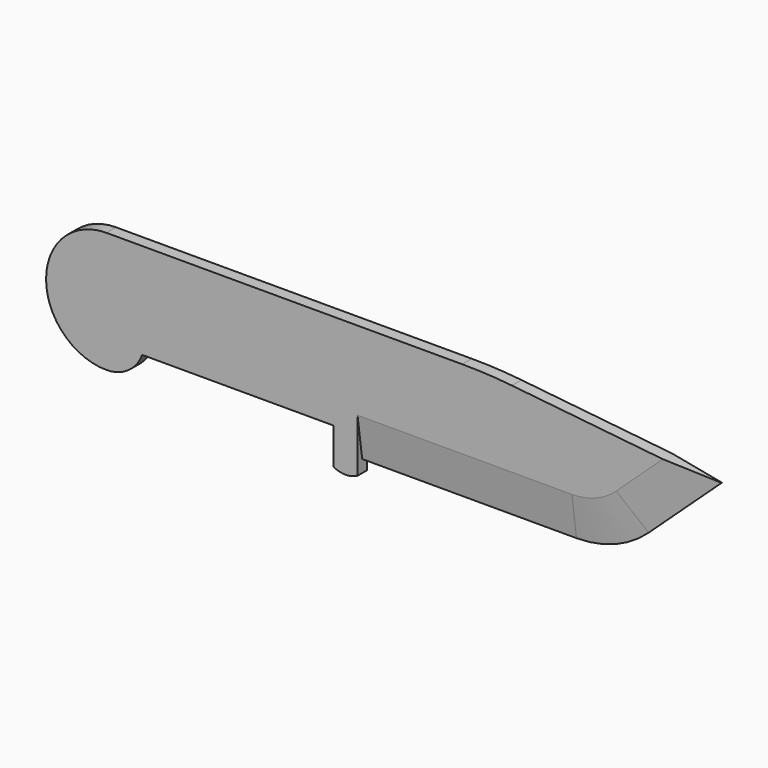
from build123d import *

# Parameters (mm, degrees)
F1_DEPTH = 3.175


with BuildPart() as f1:
    # F0 (on Front) → F1 (new body)
    with BuildSketch(Plane.XZ):
        with BuildLine():
            Line((94.2812450191, 0), (0, 0))
            ThreePointArc((0, 0), (-16.002, -16.002), (0, -32.004))
            ThreePointArc((0, -32.004), (5.7669601924, -30.1895691641), (9.4561357565, -25.4))
            Line((9.4561357565, -25.4), (60.198, -25.4))
            Line((60.198, -25.4), (60.198, -35.052))
            ThreePointArc((60.198, -35.052), (63.373, -35.8398051697), (66.548, -35.052))
            Line((66.548, -35.052), (66.548, -31.75))
            Line((66.548, -31.75), (123.3573333658, -31.75))
            ThreePointArc((123.3573333658, -31.75), (133.627989797, -29.808331099), (142.4810210729, -24.2513266114))
            Line((142.4810210729, -24.2513266114), (161.798, -6.35))
            Line((161.798, -6.35), (107.4487924851, -0.6844598091))
            ThreePointArc((107.4487924851, -0.6844598091), (100.873907446, -0.1712303847), (94.2812450191, 0))
        make_face()
    extrude(amount=F1_DEPTH)

    # F3: sweep along a path in F3_path
    with BuildLine(Plane(origin=(66.548, -3.175, -31.75), x_dir=(0, 0, -1), z_dir=(0, 1, 0))) as f3_path:
        Line((0, 0), (0, -56.8093333658))
        ThreePointArc((0, -56.8093333658), (-1.941668901, -67.079989797), (-7.4986733886, -75.9330210729))
        Line((-7.4986733886, -75.9330210729), (-25.4, -95.25))
    # F2 (on face) → F3 (sweep, cut)
    with BuildSketch(Plane.YZ.offset(66.548)):
        Polygon((-3.175, -31.75), (-1.651, -31.75), (-3.175, -20.9061765431), align=None)
    sweep(path=f3_path.line, mode=Mode.SUBTRACT)

    # F5: sweep along a path in F5_path
    with BuildLine(Plane(origin=(123.3573333658, 0, -31.75), x_dir=(0, 0, -1), z_dir=(0, 1, 0))) as f5_path:
        Line((0, 56.8093333658), (0, 0))
        ThreePointArc((0, 0), (-1.941668901, -10.2706564312), (-7.4986733886, -19.1236877071))
        Line((-7.4986733886, -19.1236877071), (-25.4, -38.4406666342))
    # F4 (on face) → F5 (sweep, cut)
    with BuildSketch(Plane.YZ.offset(66.548)):
        Polygon((0, -20.9061765431), (-1.524, -31.75), (0, -31.75), align=None)
    sweep(path=f5_path.line, mode=Mode.SUBTRACT)


solid = f1.part
